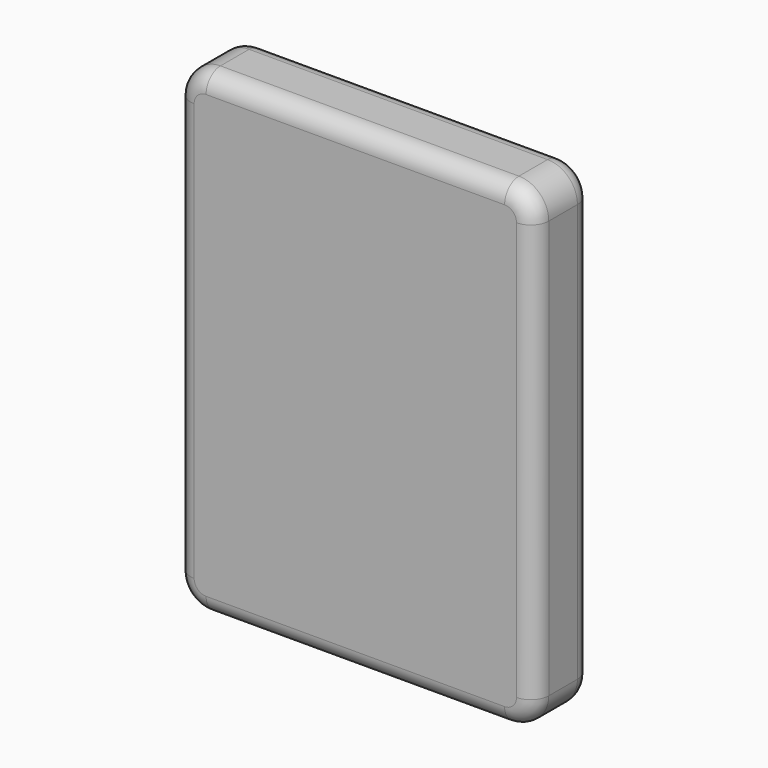
from build123d import *

# Parameters (mm, degrees)
F0_W     = 1524
F0_H     = 2032
F1_DEPTH = 304.8
F2_R     = 127
F3_R     = 76.2


with BuildPart() as f1:
    # F0 (on Front) → F1 (new body)
    with BuildSketch(Plane.XZ):
        with Locations((0, 1016)):
            Rectangle(F0_W, F0_H)
    extrude(amount=F1_DEPTH)

    # F2
    f2_edges = [f1.edges().sort_by_distance(p)[0] for p in [
        (762, -152.4, 2032),
        (-762, -152.4, 2032),
        (762, -152.4, 0),
        (-762, -152.4, 0),
    ]]
    fillet(f2_edges, radius=F2_R)

    # F3
    f3_edges = [f1.edges().sort_by_distance(p)[0] for p in [
        (-762, -304.8, 1016),
        (-762, 0, 1016),
    ]]
    fillet(f3_edges, radius=F3_R)


solid = f1.part
